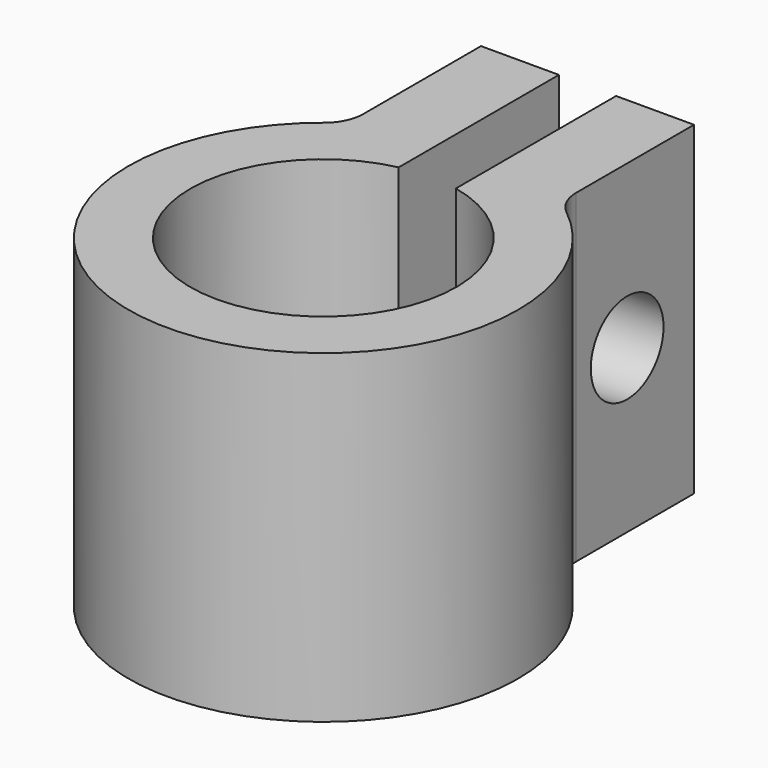
from build123d import *

# Parameters (mm, degrees)
F1_DEPTH = 25
F2_R     = 3.5
F3_DEPTH = 25
F4_R     = 3


with BuildPart() as f1:
    # F0 (on Top) → F1 (new body)
    with BuildSketch(Plane.XY):
        with BuildLine():
            ThreePointArc((-8.2, 12.5602547745), (-7.1414284285, -13.1909059583), (15, 0))
            ThreePointArc((15, 0), (13.1909059583, 7.1414284285), (8.2, 12.5602547745))
            ThreePointArc((8.2, 12.5602547745), (5.3232312755, 14.0236660253), (2.2, 14.8377895928))
            Line((2.2, 14.8377895928), (2.2, 10.0091561408))
            ThreePointArc((2.2, 10.0091561408), (7.9865195614, 6.4217374554), (10.248083072, 0))
            ThreePointArc((10.248083072, 0), (-6.4217374554, -7.9865195614), (-2.2, 10.0091561408))
            Line((-2.2, 10.0091561408), (-2.2, 14.8377895928))
            ThreePointArc((-2.2, 14.8377895928), (-5.3232312755, 14.0236660253), (-8.2, 12.5602547745))
        make_face()
        with BuildLine():
            Line((-8.2, 25.4279577023), (-8.2, 12.5602547745))
            ThreePointArc((-8.2, 12.5602547745), (-5.3232312755, 14.0236660253), (-2.2, 14.8377895928))
            Line((-2.2, 14.8377895928), (-2.2, 25.4279577023))
            Line((-2.2, 25.4279577023), (-8.2, 25.4279577023))
        make_face()
        with BuildLine():
            ThreePointArc((2.2, 14.8377895928), (5.3232312755, 14.0236660253), (8.2, 12.5602547745))
            Line((8.2, 12.5602547745), (8.2, 25.4279577023))
            Line((8.2, 25.4279577023), (2.2, 25.4279577023))
            Line((2.2, 25.4279577023), (2.2, 14.8377895928))
        make_face()
    extrude(amount=F1_DEPTH)

    # F2 (on face) → F3 (cut)
    with BuildSketch(Plane.YZ.offset(8.2)):
        with Locations((18.9941062384, 12.5)):
            Circle(F2_R)
    extrude(amount=-F3_DEPTH, mode=Mode.SUBTRACT)

    # F4
    f4_edges = [f1.edges().sort_by_distance(p)[0] for p in [
        (8.2, 12.560255, 12.5),
        (-8.2, 12.560255, 12.5),
    ]]
    fillet(f4_edges, radius=F4_R)


solid = f1.part
